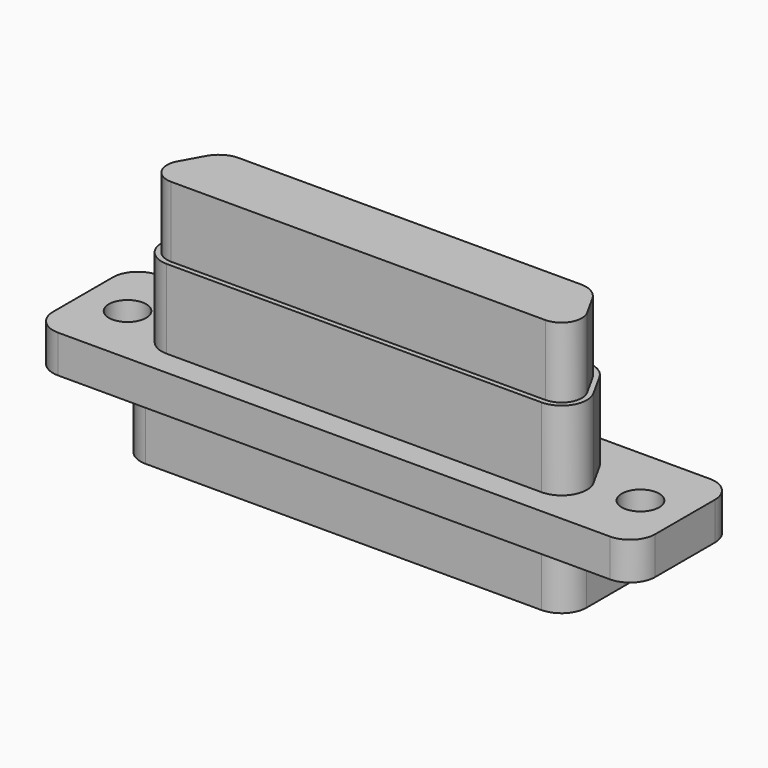
from build123d import *

# Parameters (mm, degrees)
F0_R     = 1.1684
F1_DEPTH = 1.1811
F3_DEPTH = 4.953
F5_DEPTH = 3.5814
F7_DEPTH = 4.4069


with BuildPart() as f1:
    # F0 (on Top) → F1 (new body, symmetric)
    with BuildSketch(Plane.XY):
        with BuildLine():
            Line((17.2847, 3.9116), (-17.2847, 3.9116))
            ThreePointArc((-17.2847, 3.9116), (-18.398252, 3.450352), (-18.8595, 2.3368))
            Line((-18.8595, 2.3368), (-18.8595, -2.3368))
            ThreePointArc((-18.8595, -2.3368), (-18.398252, -3.450352), (-17.2847, -3.9116))
            Line((-17.2847, -3.9116), (17.2847, -3.9116))
            ThreePointArc((17.2847, -3.9116), (18.398252, -3.450352), (18.8595, -2.3368))
            Line((18.8595, -2.3368), (18.8595, 2.3368))
            ThreePointArc((18.8595, 2.3368), (18.398252, 3.450352), (17.2847, 3.9116))
        make_face()
        with Locations((-16.0655, 0)):
            Circle(F0_R, mode=Mode.SUBTRACT)
        with Locations((16.0655, 0)):
            Circle(F0_R, mode=Mode.SUBTRACT)
    extrude(amount=F1_DEPTH, both=True)

    # F2 (on face) → F3 (join)
    with BuildSketch(Plane.XY.offset(1.1811)):
        with BuildLine():
            Line((-11.74102, -2.3368), (11.742478, -2.3368))
            ThreePointArc((11.742478, -2.3368), (13.099371, -1.561271), (13.119829, 0.001478))
            Line((13.119829, 0.001478), (12.275062, 1.525478))
            ThreePointArc((12.275062, 1.525478), (11.696982, 2.118894), (10.897711, 2.3368))
            Line((10.897711, 2.3368), (-10.896253, 2.3368))
            ThreePointArc((-10.896253, 2.3368), (-11.695525, 2.118894), (-12.273604, 1.525478))
            Line((-12.273604, 1.525478), (-13.118371, 0.001478))
            ThreePointArc((-13.118371, 0.001478), (-13.097914, -1.561271), (-11.74102, -2.3368))
        make_face()
    extrude(amount=F3_DEPTH)

    # F4 (on face) → F5 (join)
    with BuildSketch(Plane(origin=(0, 0, -1.1811), x_dir=(1, 0, 0), z_dir=(0, 0, -1))):
        with BuildLine():
            Line((12.3952, 3.175), (-12.3952, 3.175))
            ThreePointArc((-12.3952, 3.175), (-13.508752, 2.713752), (-13.97, 1.6002))
            Line((-13.97, 1.6002), (-13.97, -1.6002))
            ThreePointArc((-13.97, -1.6002), (-13.508752, -2.713752), (-12.3952, -3.175))
            Line((-12.3952, -3.175), (12.3952, -3.175))
            ThreePointArc((12.3952, -3.175), (13.508752, -2.713752), (13.97, -1.6002))
            Line((13.97, -1.6002), (13.97, 1.6002))
            ThreePointArc((13.97, 1.6002), (13.508752, 2.713752), (12.3952, 3.175))
        make_face()
    extrude(amount=F5_DEPTH)

    # F6 (on face) → F7 (join)
    with BuildSketch(Plane.XY.offset(6.1341)):
        with BuildLine():
            Line((10.710689, 2.0193), (-10.709231, 2.0193))
            ThreePointArc((-10.709231, 2.0193), (-11.508503, 1.801394), (-12.086582, 1.207978))
            Line((-12.086582, 1.207978), (-12.830227, -0.133592))
            ThreePointArc((-12.830227, -0.133592), (-12.813729, -1.393874), (-11.71946, -2.0193))
            Line((-11.71946, -2.0193), (11.720917, -2.0193))
            ThreePointArc((11.720917, -2.0193), (12.815186, -1.393874), (12.831684, -0.133592))
            Line((12.831684, -0.133592), (12.08804, 1.207978))
            ThreePointArc((12.08804, 1.207978), (11.50996, 1.801394), (10.710689, 2.0193))
        make_face()
    extrude(amount=F7_DEPTH)


solid = f1.part
